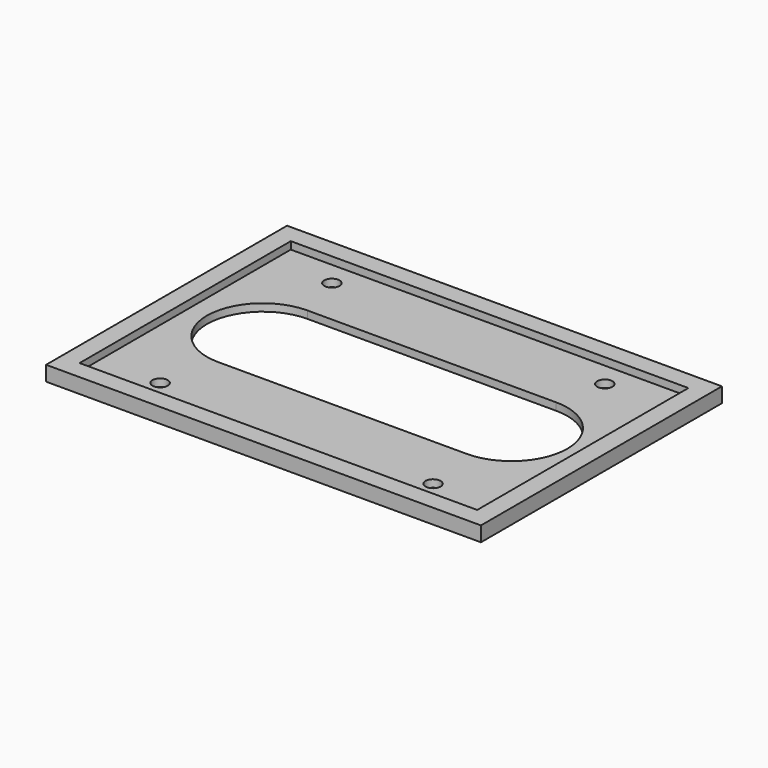
from build123d import *

# Parameters (mm, degrees)
F0_W     = 106.79
F0_H     = 70.9
F0_R     = 2.05
F1_DEPTH = 2
F0_W_2   = 116.79
F0_H_2   = 80.9
F2_DEPTH = 4


with BuildPart() as f1:
    # F0 (on Top) → F1 (new body)
    with BuildSketch(Plane.XY):
        with Locations((-10.0916011143, -8.5682209864)):
            Rectangle(F0_W, F0_H)
        with Locations((-47.0616011143, -37.5182209864)):
            Circle(F0_R, mode=Mode.SUBTRACT)
        with Locations((26.2383988857, -37.5182209864)):
            Circle(F0_R, mode=Mode.SUBTRACT)
        with Locations((-47.2416011143, 20.3817790136)):
            Circle(F0_R, mode=Mode.SUBTRACT)
        with BuildLine():
            Line((23.3033988857, -22.5132511556), (-43.4866011143, -22.5132511556))
            ThreePointArc((-43.4866011143, -22.5132511556), (-58.4866011143, -7.5132511556), (-43.4866011143, 7.4867488444))
            Line((-43.4866011143, 7.4867488444), (23.3033988857, 7.4867488444))
            ThreePointArc((23.3033988857, 7.4867488444), (38.3033988857, -7.5132511556), (23.3033988857, -22.5132511556))
        make_face(mode=Mode.SUBTRACT)
        with Locations((26.0583988857, 20.3817790136)):
            Circle(F0_R, mode=Mode.SUBTRACT)
    extrude(amount=F1_DEPTH)

    # F0 (on Top) → F2 (join)
    with BuildSketch(Plane.XY):
        with Locations((-10.0916011143, -8.5682209864)):
            Rectangle(F0_W_2, F0_H_2)
        with Locations((-10.0916011143, -8.5682209864)):
            Rectangle(F0_W, F0_H, mode=Mode.SUBTRACT)
    extrude(amount=F2_DEPTH)


solid = f1.part
